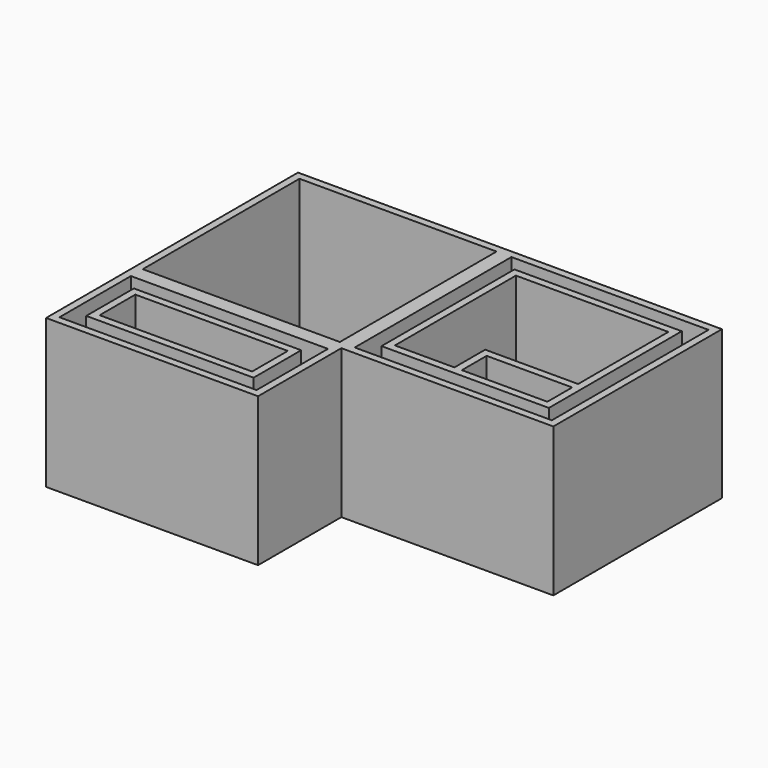
from build123d import *

# Parameters (mm, degrees)
F0_W      = 4343.4
F0_H      = 4318
F0_H_2    = 2133.6
F0_W_2    = 4038.6
F0_H_3    = 1828.8
F0_H_4    = 4013.2
F1_DEPTH  = 3048
F0_W_3    = 3429
F0_H_5    = 1219.2
F0_H_6    = 3403.6
F0_W_4    = 533.4
F0_H_7    = 228.6
F2_DEPTH  = 990.6
F0_H_8    = 717.2898056984
F3_DEPTH  = 609.6
F0_W_5    = 609.6
F0_H_9    = 609.6
F4_DEPTH  = 1524
F0_W_6    = 355.6
F0_H_10   = 1397
F5_DEPTH  = 914.4
F6_DEPTH  = 1143
F7_DEPTH  = 1447.8
F8_DEPTH  = 1219.2
F9_DEPTH  = 304.8
F0_W_7    = 1752.6
F0_H_11   = 635
F0_H_12   = 152.4
F10_DEPTH = 609.6
F0_W_8    = 152.4


with BuildPart() as f1:
    # F0 (on Top) → F1 (new body)
    with BuildSketch(Plane.XY):
        with Locations((-4343.4, 0)):
            Rectangle(F0_W, F0_H)
        Polygon((-6362.7, -2006.6), (-6362.7, 2006.6), (-2324.1, 2006.6), (-2324.1, -2006.6), (-3425.8539676666, -2006.6), (-4035.4539676666, -2006.6), align=None, mode=Mode.SUBTRACT)
        with Locations((-4343.4, -3225.8)):
            Rectangle(F0_W, F0_H_2)
        with Locations((-4343.4, -3225.8)):
            Rectangle(F0_W_2, F0_H_3, mode=Mode.SUBTRACT)
        Rectangle(F0_W, F0_H)
        Rectangle(F0_W_2, F0_H_4, mode=Mode.SUBTRACT)
    extrude(amount=F1_DEPTH)


with BuildPart() as f1b:
    # F0 (on Top) → F1, piece 2 (new body)
    with BuildSketch(Plane.XY):
        with Locations((-4343.4, -3225.8)):
            Rectangle(F0_W_3, F0_H_5)
        Polygon((-5905.5, -2768.6), (-2781.3, -2768.6), (-2781.3, -2904.2131900787), (-2781.3, -3513.8131900787), (-2781.3, -3683), (-5905.5, -3683), align=None, mode=Mode.SUBTRACT)
    extrude(amount=F1_DEPTH)


with BuildPart() as f1c:
    # F0 (on Top) → F1, piece 3 (new body)
    with BuildSketch(Plane.XY):
        Rectangle(F0_W_3, F0_H_6)
        Polygon((1333.5, 1549.4), (1562.1, 1549.4), (1562.1, 374.9101943016), (1562.1, -762), (1562.1, -914.4), (1562.1, -1549.4), (-190.5, -1549.4), (-342.9, -1549.4), (-1562.1, -1549.4), (-1562.1, -279.4), (-1562.1, 1244.6), (-1562.1, 1549.4), (800.1, 1549.4), align=None, mode=Mode.SUBTRACT)
        Polygon((1562.1, -914.4), (1562.1, -762), (-342.9, -762), (-342.9, -1549.4), (-190.5, -1549.4), (-190.5, -914.4), align=None)
    extrude(amount=F1_DEPTH)


with BuildPart() as f2:
    # F0 (on Top) → F2 (new body)
    with BuildSketch(Plane.XY):
        with Locations((1066.8, 1435.1)):
            Rectangle(F0_W_4, F0_H_7)
    extrude(amount=F2_DEPTH)


with BuildPart() as f2b:
    # F0 (on Top) → F2, piece 2 (new body)
    with BuildSketch(Plane.XY):
        with Locations((1066.8, 489.2101943016)):
            Rectangle(F0_W_4, F0_H_7)
    extrude(amount=F2_DEPTH)


with BuildPart() as f3:
    # F0 (on Top) → F3 (new body)
    with BuildSketch(Plane.XY):
        with Locations((1066.8, 962.1550971508)):
            Rectangle(F0_W_4, F0_H_8)
    extrude(amount=F3_DEPTH)


with BuildPart() as f4:
    # F0 (on Top) → F4 (new body)
    with BuildSketch(Plane.XY):
        with Locations((304.8, -234.6898056984)):
            Rectangle(F0_W_5, F0_H_9)
    extrude(amount=F4_DEPTH)


with BuildPart() as f4b:
    # F0 (on Top) → F4, piece 2 (new body)
    with BuildSketch(Plane.XY):
        with Locations((1041.4, -234.6898056984)):
            Rectangle(F0_W_5, F0_H_9)
    extrude(amount=F4_DEPTH)


with BuildPart() as f5:
    # F0 (on Top) → F5 (new body)
    with BuildSketch(Plane.XY):
        with Locations((-673.1, 546.1)):
            Rectangle(F0_W_6, F0_H_10)
    extrude(amount=F5_DEPTH)


with BuildPart() as f6:
    # F0 (on Top) → F6 (new body)
    with BuildSketch(Plane.XY):
        Polygon((-850.9, 1244.6), (-1562.1, 1244.6), (-1562.1, -279.4), (-850.9, -279.4), (-850.9, -152.4), align=None)
        Polygon((-1127.2523981686, 211.0656040807), (-1041.9296722146, 84.7889536825), (-1252.3907562116, -57.4155895741), (-1337.7134821655, 68.8610608241), align=None, mode=Mode.SUBTRACT)
        Polygon((-1210.3860998574, 814.505665424), (-1134.1911222959, 815.380533648), (-1128.0675374575, 282.0586040807), (-1204.2625150189, 281.1837358567), align=None, mode=Mode.SUBTRACT)
        Polygon((-1260.1446196279, 1154.8547273028), (-1049.6835356309, 1012.6501840462), (-1135.0062615849, 886.373533648), (-1345.4673455818, 1028.5780769046), align=None, mode=Mode.SUBTRACT)
    extrude(amount=F6_DEPTH)

    # F0 (on Top) → F7 (join)
    with BuildSketch(Plane.XY):
        Polygon((-1135.0062615849, 886.373533648), (-1049.6835356309, 1012.6501840462), (-1260.1446196279, 1154.8547273028), (-1345.4673455818, 1028.5780769046), align=None)
        Polygon((-1128.0675374575, 282.0586040807), (-1134.1911222959, 815.380533648), (-1210.3860998574, 814.505665424), (-1204.2625150189, 281.1837358567), align=None)
        Polygon((-1252.3907562116, -57.4155895741), (-1041.9296722146, 84.7889536825), (-1127.2523981686, 211.0656040807), (-1337.7134821655, 68.8610608241), align=None)
    extrude(amount=F7_DEPTH)


with BuildPart() as f8:
    # F0 (on Top) → F8 (new body)
    with BuildSketch(Plane.XY):
        Polygon((1562.1, 374.9101943016), (1562.1, 1549.4), (1333.5, 1549.4), (1333.5, 1320.8), (1333.5, 603.5101943016), (1333.5, 374.9101943016), align=None)
    extrude(amount=F8_DEPTH)


with BuildPart() as f9:
    # F0 (on Top) → F9 (new body)
    with BuildSketch(Plane.XY):
        Polygon((1562.1, -762), (1562.1, 374.9101943016), (1333.5, 374.9101943016), (800.1, 374.9101943016), (800.1, 603.5101943016), (800.1, 1320.8), (800.1, 1549.4), (-1562.1, 1549.4), (-1562.1, 1244.6), (-850.9, 1244.6), (-495.3, 1244.6), (-495.3, -152.4), (-850.9, -152.4), (-850.9, -279.4), (-1562.1, -279.4), (-1562.1, -1549.4), (-342.9, -1549.4), (-342.9, -762), align=None)
        with Locations((304.8, -234.6898056984)):
            Rectangle(F0_W_5, F0_H_9, mode=Mode.SUBTRACT)
        with Locations((1041.4, -234.6898056984)):
            Rectangle(F0_W_5, F0_H_9, mode=Mode.SUBTRACT)
    extrude(amount=F9_DEPTH)


with BuildPart() as f9b:
    # F0 (on Top) → F9, piece 2 (new body)
    with BuildSketch(Plane.XY):
        with Locations((685.8, -1231.9)):
            Rectangle(F0_W_7, F0_H_11)
    extrude(amount=F9_DEPTH)


with BuildPart() as f9c:
    # F0 (on Top) → F9, piece 3 (new body)
    with BuildSketch(Plane.XY):
        Rectangle(F0_W_2, F0_H_4)
        Rectangle(F0_W_3, F0_H_6, mode=Mode.SUBTRACT)
    extrude(amount=F9_DEPTH)


with BuildPart() as f9d:
    # F0 (on Top) → F9, piece 4 (new body)
    with BuildSketch(Plane.XY):
        Polygon((-2324.1, 2006.6), (-6362.7, 2006.6), (-6362.7, -2006.6), (-4035.4539676666, -2006.6), (-4035.4539676666, -1854.2), (-3425.8539676666, -1854.2), (-3425.8539676666, -2006.6), (-2324.1, -2006.6), align=None)
    extrude(amount=F9_DEPTH)


with BuildPart() as f9e:
    # F0 (on Top) → F9, piece 5 (new body)
    with BuildSketch(Plane.XY):
        Polygon((-2781.3, -2904.2131900787), (-2781.3, -2768.6), (-5905.5, -2768.6), (-5905.5, -3683), (-2781.3, -3683), (-2781.3, -3513.8131900787), (-2933.7, -3513.8131900787), (-2933.7, -2904.2131900787), align=None)
    extrude(amount=F9_DEPTH)


with BuildPart() as f9f:
    # F0 (on Top) → F9, piece 6 (new body)
    with BuildSketch(Plane.XY):
        with Locations((-4343.4, -3225.8)):
            Rectangle(F0_W_2, F0_H_3)
        with Locations((-4343.4, -3225.8)):
            Rectangle(F0_W_3, F0_H_5, mode=Mode.SUBTRACT)
    extrude(amount=F9_DEPTH)


with BuildPart() as f10:
    # F0 (on Top) → F10 (new body)
    with BuildSketch(Plane.XY):
        with Locations((-3730.6539676666, -1930.4)):
            Rectangle(F0_W_5, F0_H_12)
    extrude(amount=F10_DEPTH)


with BuildPart() as f10b:
    # F0 (on Top) → F10, piece 2 (new body)
    with BuildSketch(Plane.XY):
        with Locations((-2857.5, -3209.0131900787)):
            Rectangle(F0_W_8, F0_H_9)
    extrude(amount=F10_DEPTH)


solid = Compound([f1.part, f1b.part, f1c.part, f2.part, f2b.part, f3.part, f4.part, f4b.part, f5.part, f6.part, f8.part, f9.part, f9b.part, f9c.part, f9d.part, f9e.part, f9f.part, f10.part, f10b.part])
